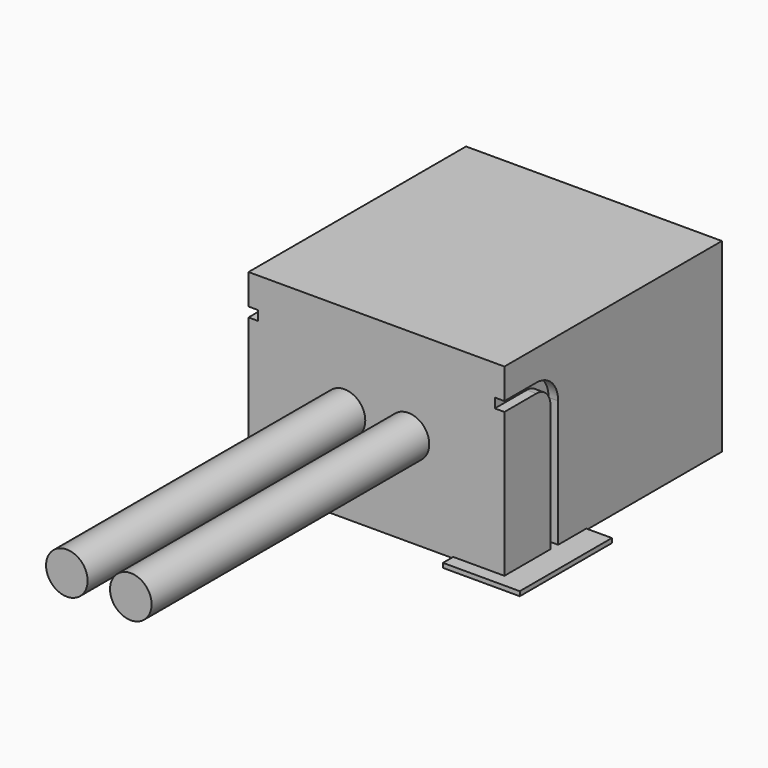
from build123d import *

# Parameters (mm, degrees)
SKETCH_W     = 4.25
SKETCH_H     = 2.9
PAD_DEPTH    = 2
SKETCH004_W  = 0.25
SKETCH004_H  = 0.15
SKETCH001_R  = 0.325
PAD001_DEPTH = 8
SKETCH002_R  = 0.325
PAD002_DEPTH = 8
SKETCH005_W  = 1.2
SKETCH005_H  = 1.8
PAD003_DEPTH = 0.07
SKETCH006_W  = 0.6
SKETCH006_H  = 1.55
PAD004_DEPTH = 0.07
SKETCH007_W  = 0.6
SKETCH007_H  = 1.55
PAD005_DEPTH = 0.07
SKETCH008_W  = 1.2
SKETCH008_H  = 1.8
PAD006_DEPTH = 0.07


with BuildPart() as housing:
    # Sketch → Pad (new body, symmetric)
    with BuildSketch(Plane.YZ):
        with Locations((-0.45, 1.5)):
            Rectangle(SKETCH_W, SKETCH_H)
    extrude(amount=PAD_DEPTH, both=True)

    # SubtractivePipe: sweep along a path in Sketch003
    with BuildLine(Plane.YZ) as subtractivepipe_path:
        Line((-3, 2.4), (-1.95, 2.4))
        ThreePointArc((-1.95, 2.4), (-1.702513, 2.297487), (-1.6, 2.05))
        Line((-1.6, 2.05), (-1.6, 0))
    # Sketch004 → SubtractivePipe (sweep, cut)
    with BuildSketch(Plane.XY):
        with Locations((-1.975, -1.6)):
            Rectangle(SKETCH004_W, SKETCH004_H)
    subtractivepipe = sweep(path=subtractivepipe_path.line, mode=Mode.SUBTRACT)

    # Mirrored: SubtractivePipe across YZ
    add(subtractivepipe.mirror(Plane.YZ), mode=Mode.SUBTRACT)


with BuildPart() as body001:
    # Sketch001 → Pad001 (new body)
    with BuildSketch(Plane.XZ):
        with Locations((-0.5, 1.5)):
            Circle(SKETCH001_R)
    extrude(amount=PAD001_DEPTH)


with BuildPart() as body002:
    # Sketch002 → Pad002 (new body)
    with BuildSketch(Plane.XZ):
        with Locations((-0.5, 1.5)):
            Circle(SKETCH002_R)
    extrude(amount=PAD002_DEPTH)


with BuildPart() as body002_1:
    # Body002 placement: moved
    add(body002.part.moved(Location((1, 0, 0))))


with BuildPart() as pad1:
    # Sketch005 → Pad003 (new body)
    with BuildSketch(Plane.XY):
        with Locations((-1.8, -1.875)):
            Rectangle(SKETCH005_W, SKETCH005_H)
    extrude(amount=PAD003_DEPTH)


with BuildPart() as pad2:
    # Sketch006 → Pad004 (new body)
    with BuildSketch(Plane.XY):
        with Locations((-0.5, 0.65)):
            Rectangle(SKETCH006_W, SKETCH006_H)
    extrude(amount=PAD004_DEPTH)


with BuildPart() as pad3:
    # Sketch007 → Pad005 (new body)
    with BuildSketch(Plane.XY):
        with Locations((0.5, 0.65)):
            Rectangle(SKETCH007_W, SKETCH007_H)
    extrude(amount=PAD005_DEPTH)


with BuildPart() as pad4:
    # Sketch008 → Pad006 (new body)
    with BuildSketch(Plane.XY):
        with Locations((1.8, -1.875)):
            Rectangle(SKETCH008_W, SKETCH008_H)
    extrude(amount=PAD006_DEPTH)


solid = Compound([housing.part, body001.part, body002_1.part, pad1.part, pad2.part, pad3.part, pad4.part])
